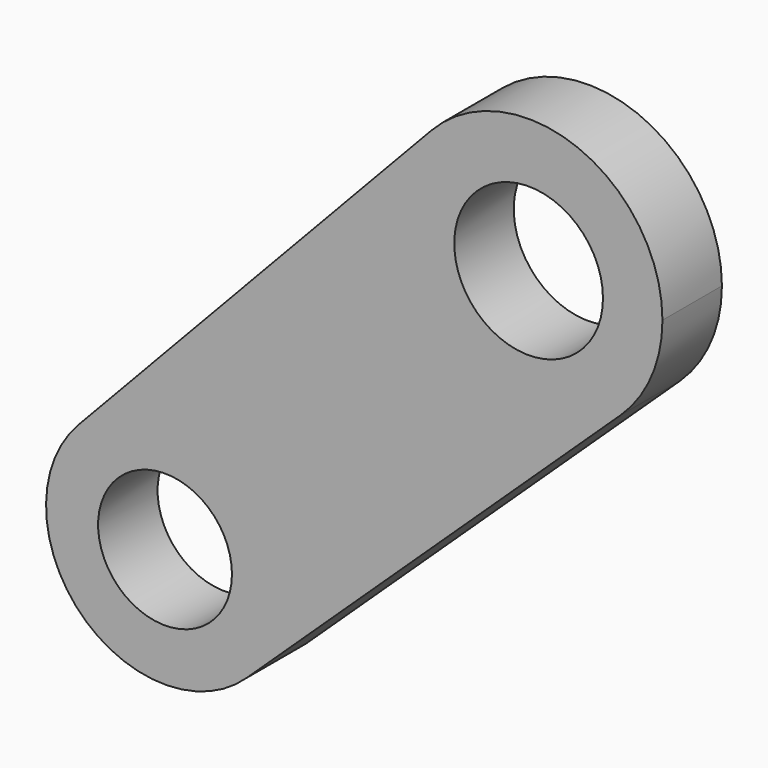
from build123d import *

# Parameters (mm, degrees)
F0_R     = 25
F0_R_2   = 22.5
F1_DEPTH = 25


with BuildPart() as f1:
    # F0 (on Front) → F1 (new body)
    with BuildSketch(Plane.XZ):
        with BuildLine():
            ThreePointArc((30.886308, -32.726686), (41.321204, -17.820159), (45, 0))
            ThreePointArc((45, 0), (16.617748, 41.819259), (-32.726686, 30.886308))
            ThreePointArc((-32.726686, 30.886308), (-31.819805, -31.819805), (30.886308, -32.726686))
        make_face()
        Circle(F0_R, mode=Mode.SUBTRACT)
        with BuildLine():
            ThreePointArc((30.886308, -32.726686), (-31.819805, -31.819805), (-32.726686, 30.886308))
            Line((-32.726686, 30.886308), (-151.347864, -94.80298))
            ThreePointArc((-151.347864, -94.80298), (-107.486144, -85.084801), (-82.257476, -122.257476))
            ThreePointArc((-82.257476, -122.257476), (-85.527517, -138.097618), (-94.80298, -151.347864))
            Line((-94.80298, -151.347864), (30.886308, -32.726686))
        make_face()
        with BuildLine():
            ThreePointArc((-82.257476, -122.257476), (-107.486144, -85.084801), (-151.347864, -94.80298))
            ThreePointArc((-151.347864, -94.80298), (-150.541748, -150.541748), (-94.80298, -151.347864))
            ThreePointArc((-94.80298, -151.347864), (-85.527517, -138.097618), (-82.257476, -122.257476))
        make_face()
        with Locations((-122.257476, -122.257476)):
            Circle(F0_R_2, mode=Mode.SUBTRACT)
    extrude(amount=F1_DEPTH)


solid = f1.part
